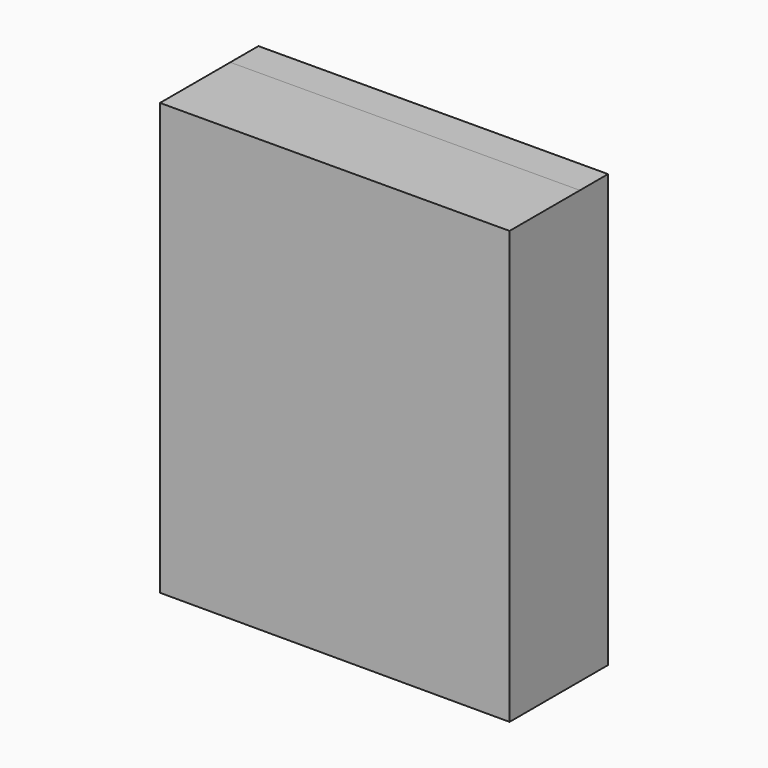
from build123d import *

# Parameters (mm, degrees)
F1_DEPTH = 10
F3_DEPTH = 25


with BuildPart() as f1:
    # F0 (on Front) → F1 (new body)
    with BuildSketch(Plane.XZ):
        Polygon((43.057557, 60.337234), (-56.371406, 60.053959), (-56.371406, -62.603422), (43.057557, -62.603422), align=None)
    extrude(amount=F1_DEPTH)

    # F1_face (on face) → F3 (join)
    with BuildSketch(Plane(origin=(-6.637811, -10, -1.203885), x_dir=(1, 0, 0), z_dir=(0, -1, 0))):
        Polygon((49.695368, 61.541119), (-49.733595, 61.257845), (-49.733595, -61.399536), (49.695368, -61.399536), align=None)
        Polygon((-49.733595, 61.257845), (49.695368, 61.541119), (49.695368, -61.399536), (-49.733595, -61.399536), align=None)
    extrude(amount=F3_DEPTH)


solid = f1.part
